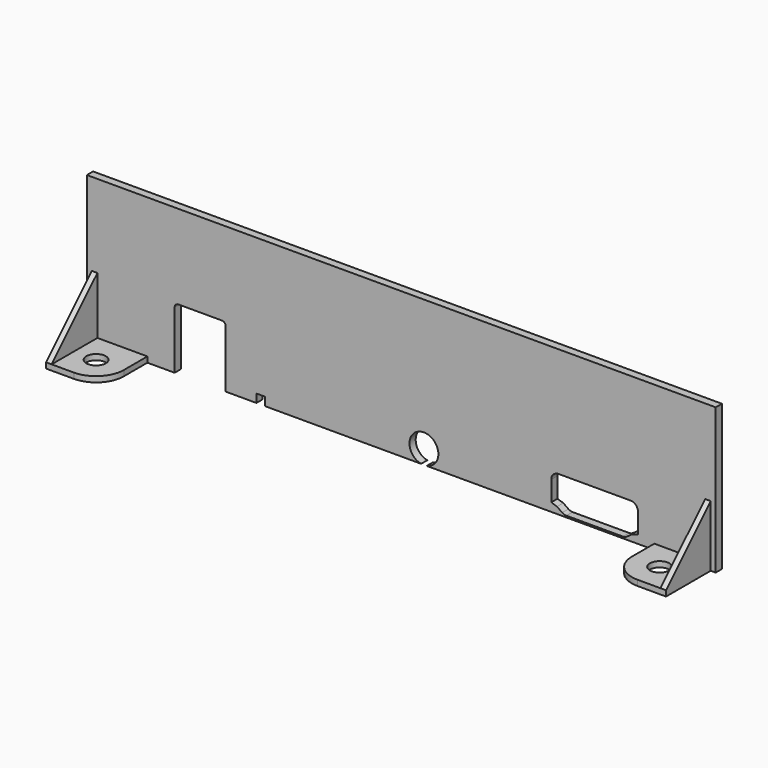
from build123d import *

# Parameters (mm, degrees)
PAD028_DEPTH    = 1.4
SKETCH048_R     = 1.75
PAD029_DEPTH    = 1
PAD030_DEPTH    = 1
PAD031_DEPTH    = 1
SKETCH179_W     = 1.5
SKETCH179_H     = 1.5
POCKET061_DEPTH = 5


with BuildPart() as part:
    # Sketch047 (on Face725 of Binder021) → Pad028 (new body)
    with BuildSketch(Plane(origin=(0, 135.8, 0), x_dir=(-1, 0, 0), z_dir=(0, 1, 0))):
        with BuildLine():
            Line((-120.499982, -0.1), (-120.499982, -26.3))
            Line((-120.499982, -26.3), (-68.48194, -26.3))
            ThreePointArc((-67.46705, -26.3), (-67.974495, -21.15), (-68.48194, -26.3))
            Line((-67.46705, -26.3), (-32.299995, -26.3))
            Line((-32.299995, -15.934266), (-32.299995, -26.3))
            ThreePointArc((-31.615729, -15.25), (-32.099578, -15.450417), (-32.299995, -15.934266))
            Line((-31.615729, -15.25), (-23.784261, -15.25))
            ThreePointArc((-23.099995, -15.934266), (-23.300412, -15.450417), (-23.784261, -15.25))
            Line((-23.099995, -15.934266), (-23.099995, -26.3))
            Line((-7.299995, -26.3), (-23.099995, -26.3))
            Line((-7.299995, -26.3), (-7.299995, -0.1))
            Line((-7.299995, -0.1), (-120.499982, -0.1))
        make_face()
        with BuildLine():
            Line((-105.199995, -19.86), (-92.199994, -19.86))
            ThreePointArc((-90.899995, -21.16), (-91.280756, -20.240762), (-92.199994, -19.86))
            Line((-90.899995, -21.16), (-90.899995, -24.776619))
            Line((-90.899995, -24.776619), (-91.938732, -25.120886))
            Line((-91.938732, -25.120886), (-92.869018, -25.773985))
            ThreePointArc((-93.61597, -26.01), (-93.224294, -25.949593), (-92.869018, -25.773985))
            Line((-93.61597, -26.01), (-103.78402, -26.01))
            ThreePointArc((-104.530977, -25.773981), (-104.175699, -25.949592), (-103.78402, -26.01))
            Line((-105.461258, -25.120886), (-104.530977, -25.773981))
            Line((-106.499995, -24.776619), (-105.461258, -25.120886))
            Line((-106.499995, -21.16), (-106.499995, -24.776619))
            ThreePointArc((-105.199995, -19.86), (-106.119234, -20.240761), (-106.499995, -21.16))
        make_face(mode=Mode.SUBTRACT)
    extrude(amount=-PAD028_DEPTH)

    # Sketch048 (on Face5 of Binder022) → Pad029 (join)
    with BuildSketch(Plane.XY.offset(-26.3)):
        with BuildLine():
            Line((18.199995, 134.4), (8.199995, 134.4))
            Line((8.199995, 134.4), (8.199995, 124.1))
            Line((8.199995, 124.1), (13.199995, 124.1))
            ThreePointArc((13.199995, 124.1), (16.735529, 125.564466), (18.199995, 129.1))
            Line((18.199995, 134.4), (18.199995, 129.1))
        make_face()
        with Locations((13.199995, 129.1)):
            Circle(SKETCH048_R, mode=Mode.SUBTRACT)
        with BuildLine():
            Line((109.449995, 134.4), (119.599982, 134.4))
            Line((119.599982, 134.4), (119.599982, 124.35))
            Line((119.599982, 124.35), (114.449995, 124.35))
            ThreePointArc((109.449995, 129.35), (110.914461, 125.814466), (114.449995, 124.35))
            Line((109.449995, 134.4), (109.449995, 129.35))
        make_face()
        with Locations((114.449995, 129.35)):
            Circle(SKETCH048_R, mode=Mode.SUBTRACT)
    extrude(amount=PAD029_DEPTH)

    # Sketch049 (on Face25 of Pad029) → Pad030 (join)
    with BuildSketch(Plane(origin=(8.199995, 0, 0), x_dir=(0, -1, 0), z_dir=(-1, 0, 0))):
        Polygon((-134.4, -25.3), (-124.1, -25.3), (-134.4, -15), align=None)
    extrude(amount=-PAD030_DEPTH)

    # Sketch050 (on Face36 of Pad030) → Pad031 (join)
    with BuildSketch(Plane.YZ.offset(119.599982)):
        Polygon((124.35, -25.3), (134.4, -25.3), (134.4, -15.25), align=None)
    extrude(amount=-PAD031_DEPTH)

    # Sketch179 (on Face4 of Clone005) → Pocket061 (cut)
    with BuildSketch(Plane(origin=(0, 135.8, 0), x_dir=(-1, 0, 0), z_dir=(0, 1, 0))):
        with Locations((-38.579995, -25.55)):
            Rectangle(SKETCH179_W, SKETCH179_H)
    extrude(amount=-POCKET061_DEPTH, mode=Mode.SUBTRACT)


solid = part.part
